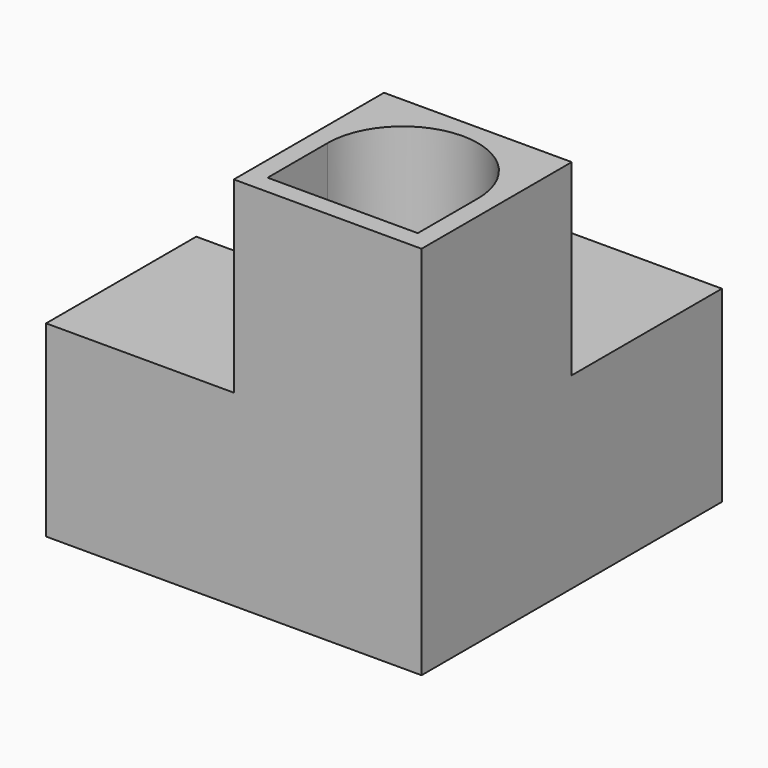
from build123d import *

# Parameters (mm, degrees)
F1_DEPTH  = 12.7
F2_W      = 12.7
F2_H      = 12.7
F3_DEPTH  = 12.7
F5_W      = 10.16
F5_H      = 5.08
F6_DEPTH  = 12.7
F7_W      = 5.08
F7_H      = 10.16
F8_DEPTH  = 12.7
F9_W      = 10.16
F9_H      = 10.16
F10_DEPTH = 12.7


with BuildPart() as f1:
    # F0 (on Top) → F1 (new body)
    with BuildSketch(Plane.XY):
        Polygon((0, 12.7), (0, 0), (25.4, 0), (25.4, 12.7), (25.4, 25.4), (12.7, 25.4), (12.7, 12.7), align=None)
    extrude(amount=F1_DEPTH)

    # F2 (on face) → F3 (join)
    with BuildSketch(Plane.XY.offset(12.7)):
        with Locations((19.05, 6.35)):
            Rectangle(F2_W, F2_H)
    extrude(amount=F3_DEPTH)

    # F5 (on face) → F6 (cut)
    with BuildSketch(Plane.XY.offset(25.4)):
        with Locations((19.05, 3.81)):
            Rectangle(F5_W, F5_H)
        with BuildLine():
            Line((13.97, 6.35), (24.13, 6.35))
            ThreePointArc((24.13, 6.35), (19.05, 11.43), (13.97, 6.35))
        make_face()
    extrude(amount=-F6_DEPTH, mode=Mode.SUBTRACT)

    # F7 (on face) → F8 (cut)
    with BuildSketch(Plane(origin=(0, 0, 0), x_dir=(0, -1, 0), z_dir=(-1, 0, 0))):
        with Locations((-3.81, 6.35)):
            Rectangle(F7_W, F7_H)
        with BuildLine():
            Line((-6.35, 1.27), (-6.35, 11.43))
            ThreePointArc((-6.35, 11.43), (-11.43, 6.35), (-6.35, 1.27))
        make_face()
    extrude(amount=-F8_DEPTH, mode=Mode.SUBTRACT)

    # F9 (on face) → F10 (cut)
    with BuildSketch(Plane(origin=(0, 25.4, 0), x_dir=(-1, 0, 0), z_dir=(0, 1, 0))):
        with Locations((-19.05, 6.35)):
            Rectangle(F9_W, F9_H)
    extrude(amount=-F10_DEPTH, mode=Mode.SUBTRACT)


solid = f1.part
